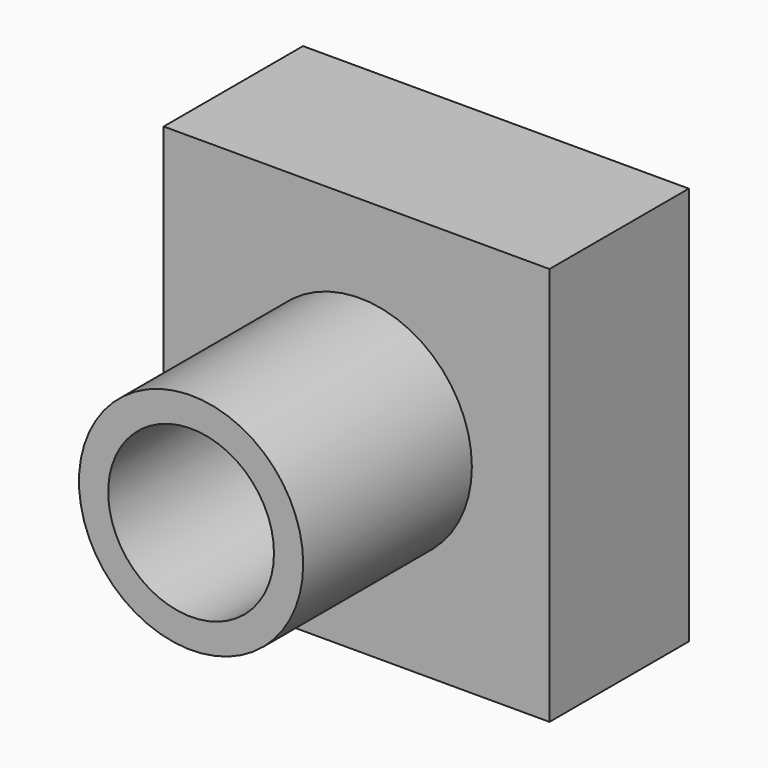
from build123d import *

# Parameters (mm, degrees)
F0_W     = 41.9582277536
F0_H     = 96.0698723793
F1_DEPTH = 45.72
F2_DEPTH = 47.244
F3_R     = 27.0129618135
F3_R_2   = 19.972912416
F4_DEPTH = 50.8
F5_DEPTH = 76.708


with BuildPart() as f1:
    # F0 (on Right) → F1 (new body)
    with BuildSketch(Plane.YZ):
        Rectangle(F0_W, F0_H)
    extrude(amount=F1_DEPTH)

    # F2 (add): a face of the model
    f2_faces = [f1.faces().sort_by_distance(p)[0] for p in [
        (0, 0, 0),
    ]]
    extrude(f2_faces, amount=F2_DEPTH)

    # F3 (on face) → F4 (join)
    with BuildSketch(Plane.XZ.offset(20.9791138768)):
        Circle(F3_R)
        Circle(F3_R_2, mode=Mode.SUBTRACT)
    extrude(amount=F4_DEPTH)

    # F5 (cut): a face of the model
    f5_faces = [f1.faces().sort_by_distance(p)[0] for p in [
        (0, -20.9791138768, 0),
    ]]
    extrude(f5_faces, amount=-F5_DEPTH, mode=Mode.SUBTRACT)


solid = f1.part
